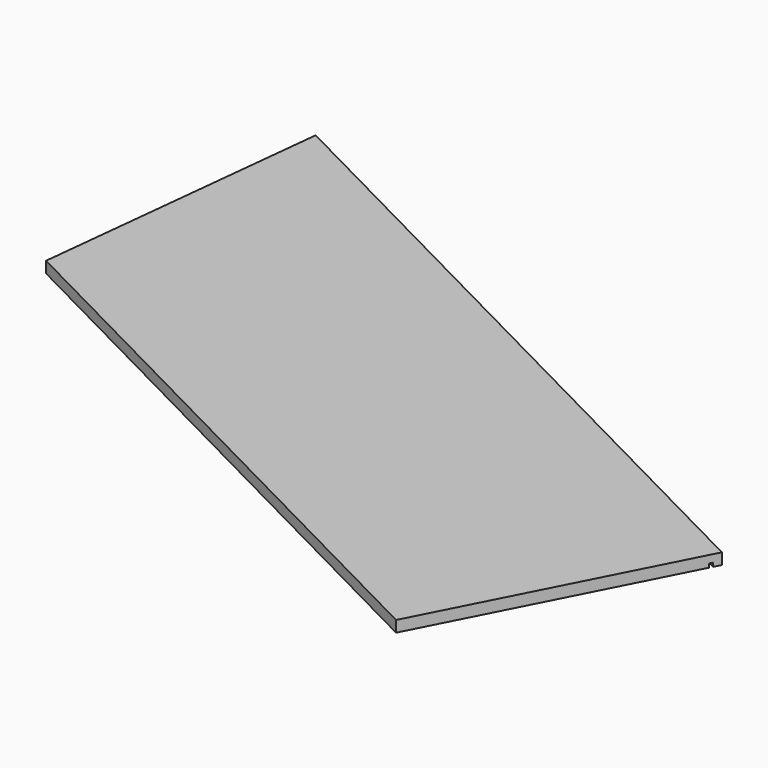
from build123d import *

# Parameters (mm, degrees)
F1_DEPTH = 18
F3_DEPTH = 6


with BuildPart() as f1:
    # F0 (on Top) → F1 (new body)
    with BuildSketch(Plane.XY):
        Polygon((834.8224465267, -191.4757991363), (-270.6217704598, 374.7018082726), (-321.7972505834, -102.5623431511), (630.5432843246, -590.3245270833), align=None)
    extrude(amount=F1_DEPTH)

    # F2 (on face) → F3 (cut)
    with BuildSketch(Plane(origin=(0, 0, 0), x_dir=(1, 0, 0), z_dir=(0, 0, -1))):
        Polygon((-271.9921794431, -361.9213306116), (829.3521314793, 202.1564195902), (826.6169739555, 207.4967298172), (-272.6773839347, -355.5310917811), align=None)
    extrude(amount=-F3_DEPTH, mode=Mode.SUBTRACT)


solid = f1.part
